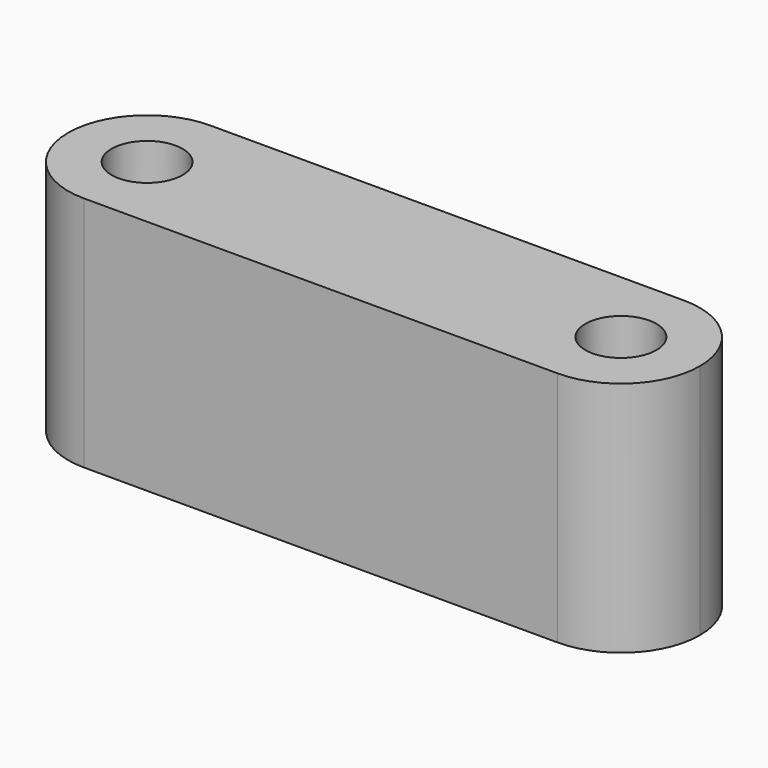
from build123d import *

# Parameters (mm, degrees)
F0_R     = 2.25
F1_DEPTH = 15


with BuildPart() as f1:
    # F0 (on Top) → F1 (new body)
    with BuildSketch(Plane.XY):
        with BuildLine():
            ThreePointArc((20, 0), (18.535534, 3.535534), (15, 5))
            Line((15, 5), (-15, 5))
            ThreePointArc((-15, 5), (-18.535534, 3.535534), (-20, 0))
            ThreePointArc((-20, 0), (-18.535534, -3.535534), (-15, -5))
            Line((-15, -5), (15, -5))
            ThreePointArc((15, -5), (18.535534, -3.535534), (20, 0))
        make_face()
        with Locations((-15, 0)):
            Circle(F0_R, mode=Mode.SUBTRACT)
        with Locations((15, 0)):
            Circle(F0_R, mode=Mode.SUBTRACT)
    extrude(amount=F1_DEPTH)


solid = f1.part
